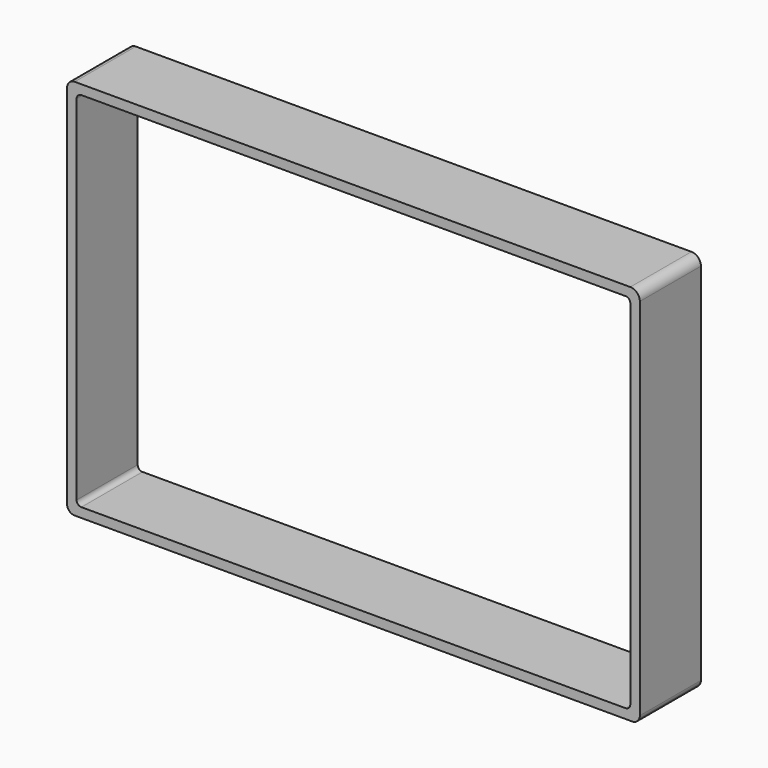
from build123d import *

# Parameters (mm, degrees)
F0_W     = 381
F0_H     = 254
F1_DEPTH = 50.8
F2_R     = 6.35
F3_R     = 5.08
F5_W     = 368.3
F5_H     = 241.3
F6_DEPTH = 50.8
F7_R     = 3.175


with BuildPart() as f1:
    # F0 (on Front) → F1 (new body)
    with BuildSketch(Plane.XZ):
        Rectangle(F0_W, F0_H)
    extrude(amount=F1_DEPTH)

    # F2
    f2_edges = [f1.edges().sort_by_distance(p)[0] for p in [
        (190.5, -25.4, 127),
    ]]
    fillet(f2_edges, radius=F2_R)

    # F3
    f3_edges = [f1.edges().sort_by_distance(p)[0] for p in [
        (190.5, -25.4, -127),
        (-190.5, -25.4, 127),
        (-190.5, -25.4, -127),
    ]]
    fillet(f3_edges, radius=F3_R)


with BuildPart() as f1_1:
    # F4: moved
    add(f1.part.moved(Location((0, 50.8, 0))))

    # F5 (on Front) → F6 (cut)
    with BuildSketch(Plane.XZ):
        Rectangle(F5_W, F5_H)
    extrude(amount=-F6_DEPTH, mode=Mode.SUBTRACT)

    # F7
    f7_edges = [f1_1.edges().sort_by_distance(p)[0] for p in [
        (-184.15, 25.4, -120.65),
        (-184.15, 25.4, 120.65),
        (184.15, 25.4, -120.65),
        (184.15, 25.4, 120.65),
    ]]
    fillet(f7_edges, radius=F7_R)


with BuildPart() as f1_2:
    # F8: moved
    add(f1_1.part.moved(Location((0, 50.8, 0))))


with BuildPart() as f1_3:
    # F9: moved
    add(f1_2.part.moved(Location((0, 203.2, 0))))


solid = f1_3.part
